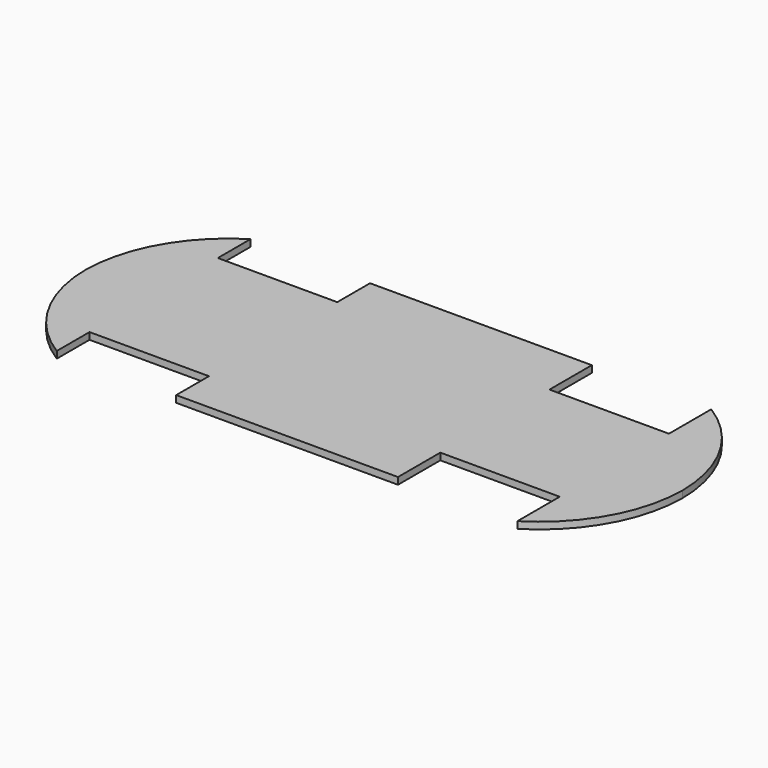
from build123d import *

# Parameters (mm, degrees)
F1_DEPTH = 4


with BuildPart() as f1:
    # F0 (on Top) → F1 (new body)
    with BuildSketch(Plane.XY):
        with BuildLine():
            Line((40, 47.8), (40, 71.8))
            ThreePointArc((40, 71.8), (10.870235, 41.444109), (0.00379, 0.8))
            ThreePointArc((0.00379, 0.8), (10.870235, -39.844109), (40, -70.2))
            Line((40, -70.2), (40, -46.2))
            Line((40, -46.2), (110, -46.2))
            Line((110, -46.2), (110, -70.2))
            Line((110, -70.2), (240, -70.2))
            Line((240, -70.2), (240, -39.2))
            Line((240, -39.2), (310, -39.2))
            Line((310, -39.2), (310, -70.2))
            ThreePointArc((310, -70.2), (339.129765, -39.844109), (349.99621, 0.8))
            ThreePointArc((349.99621, 0.8), (339.129765, 41.444109), (310, 71.8))
            Line((310, 71.8), (310, 40.8))
            Line((310, 40.8), (240, 40.8))
            Line((240, 40.8), (240, 71.8))
            Line((240, 71.8), (110, 71.8))
            Line((110, 71.8), (110, 47.8))
            Line((110, 47.8), (40, 47.8))
        make_face()
    extrude(amount=F1_DEPTH)


solid = f1.part
